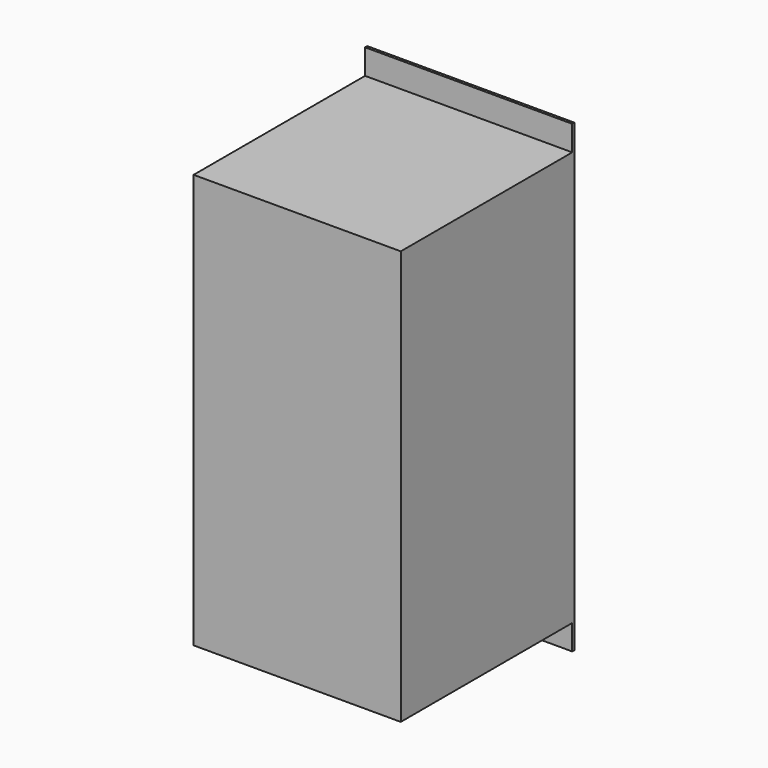
from build123d import *

# Parameters (mm, degrees)
F0_W     = 231
F0_H     = 462
F1_DEPTH = 242
F0_H_2   = 28
F2_DEPTH = 3


with BuildPart() as f1:
    # F0 (on Front) → F1 (new body)
    with BuildSketch(Plane.XZ):
        Rectangle(F0_W, F0_H)
    extrude(amount=F1_DEPTH)

    # F0 (on Front) → F2 (join)
    with BuildSketch(Plane.XZ):
        with Locations((0, 245)):
            Rectangle(F0_W, F0_H_2)
        with Locations((0, -245)):
            Rectangle(F0_W, F0_H_2)
    extrude(amount=F2_DEPTH)


solid = f1.part
